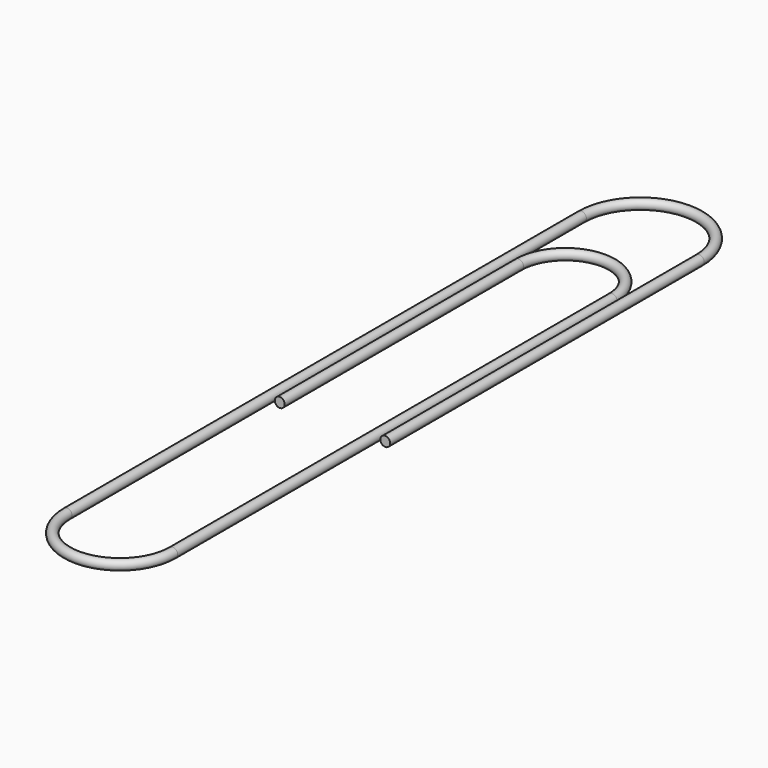
from build123d import *

# Parameters (mm, degrees)
F0_R = 0.635


with BuildPart() as f2:
    # F2: sweep along a path in F1
    with BuildLine(Plane.XY) as f2_path:
        Line((0, 0), (0, 50.8))
        ThreePointArc((0, 50.8), (-7.62, 58.42), (-15.24, 50.8))
        Line((-15.24, 50.8), (-15.24, -32.431319))
        ThreePointArc((-15.24, -32.431319), (-8.400503, -39.270816), (-1.561007, -32.431319))
        Line((-1.561007, -32.431319), (-1.561007, 38.652964))
        ThreePointArc((-1.561007, 38.652964), (-7.609035, 44.700992), (-13.657062, 38.652964))
        Line((-13.657062, 38.652964), (-13.657062, 0))
    # F0 (on Front) → F2 (sweep)
    with BuildSketch(Plane.XZ):
        Circle(F0_R)
    sweep(path=f2_path.line)


solid = f2.part
